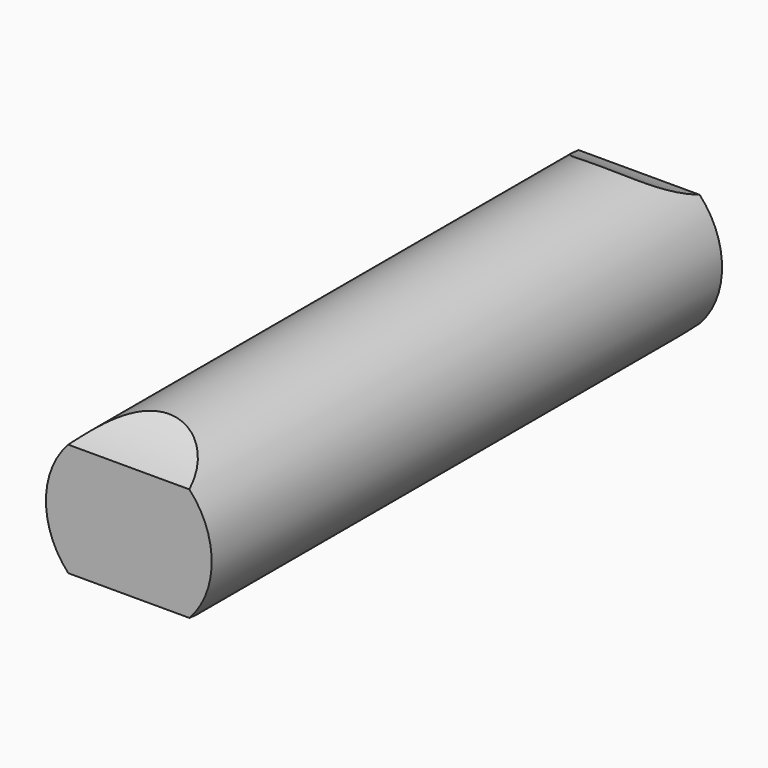
from build123d import *

# Parameters (mm, degrees)
F0_W     = 12.7
F0_H     = 1.65
F3_DEPTH = 1.65


with BuildPart() as f1:
    # F0 (on Right) → F1 (revolve)
    with BuildSketch(Plane.YZ):
        with Locations((6.35, 0.825)):
            Rectangle(F0_W, F0_H)
    revolve(axis=Axis((0, 6.35, 0), (0, -1, 0)))

    # F2 (on Right) → F3 (cut, symmetric)
    with BuildSketch(Plane.YZ):
        with BuildLine():
            Line((0, 1.65), (0, 1.1264734296))
            ThreePointArc((0, 1.1264734296), (0.5225498795, 1.3451636775), (1, 1.65))
            Line((1, 1.65), (0, 1.65))
        make_face()
        with BuildLine():
            ThreePointArc((11.7, 1.65), (12.1774501205, 1.3451636775), (12.7, 1.1264734296))
            Line((12.7, 1.1264734296), (12.7, 1.65))
            Line((12.7, 1.65), (11.7, 1.65))
        make_face()
        with BuildLine():
            Line((11.7, -1.65), (12.7, -1.65))
            Line((12.7, -1.65), (12.7, -1.1264734296))
            ThreePointArc((12.7, -1.1264734296), (12.1774501205, -1.3451636775), (11.7, -1.65))
        make_face()
        with BuildLine():
            ThreePointArc((1, -1.65), (0.5225498795, -1.3451636775), (0, -1.1264734296))
            Line((0, -1.1264734296), (0, -1.65))
            Line((0, -1.65), (1, -1.65))
        make_face()
    extrude(amount=F3_DEPTH, both=True, mode=Mode.SUBTRACT)


solid = f1.part
